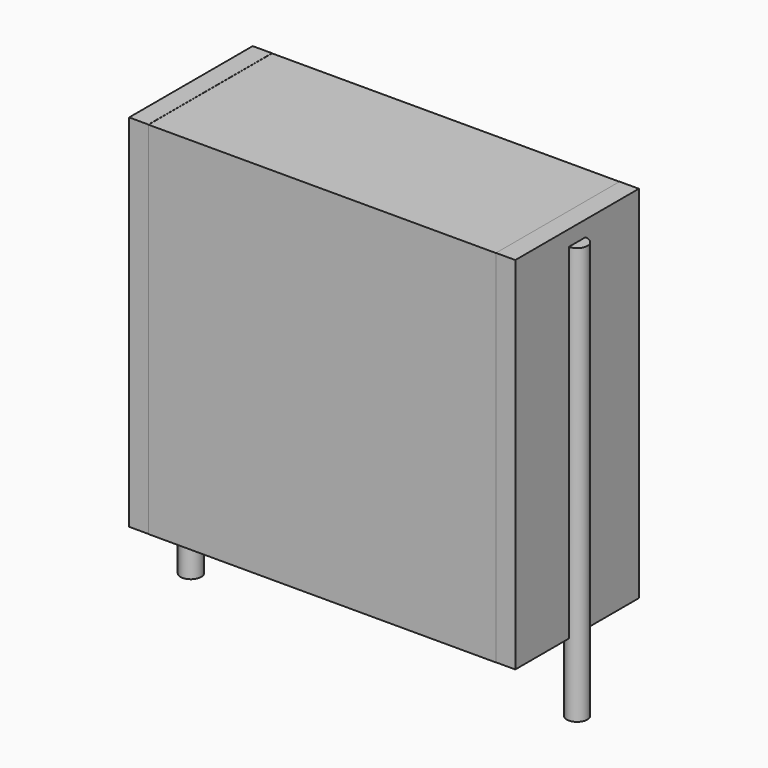
from build123d import *

# Parameters (mm, degrees)
SKETCH_W          = 13.5
SKETCH_H          = 6
PAD_DEPTH         = 14
SKETCH001_R       = 0.4
PAD001_DEPTH      = 13
PAD001_DEPTH_BACK = 3.2
SKETCH002_W       = 0.75
SKETCH002_H       = 6
PAD002_DEPTH      = 14


with BuildPart() as pad:
    # Sketch → Pad (new body)
    with BuildSketch(Plane.XY.offset(0.1)):
        with Locations((7.5, 0)):
            Rectangle(SKETCH_W, SKETCH_H)
    extrude(amount=PAD_DEPTH)


with BuildPart() as pad001:
    # Sketch001 → Pad001 (new body, two sides)
    with BuildSketch(Plane.XY.offset(0.5)) as pad001_sk:
        Circle(SKETCH001_R)
        with Locations((15, 0)):
            Circle(SKETCH001_R)
    extrude(amount=PAD001_DEPTH)
    extrude(pad001_sk.sketch, amount=-PAD001_DEPTH_BACK)


with BuildPart() as pad002:
    # Sketch002 → Pad002 (new body)
    with BuildSketch(Plane.XY.offset(0.105)):
        with Locations((0.375, 0)):
            Rectangle(SKETCH002_W, SKETCH002_H)
        with Locations((14.625, 0)):
            Rectangle(SKETCH002_W, SKETCH002_H)
    extrude(amount=PAD002_DEPTH)


solid = Compound([pad.part, pad001.part, pad002.part])
